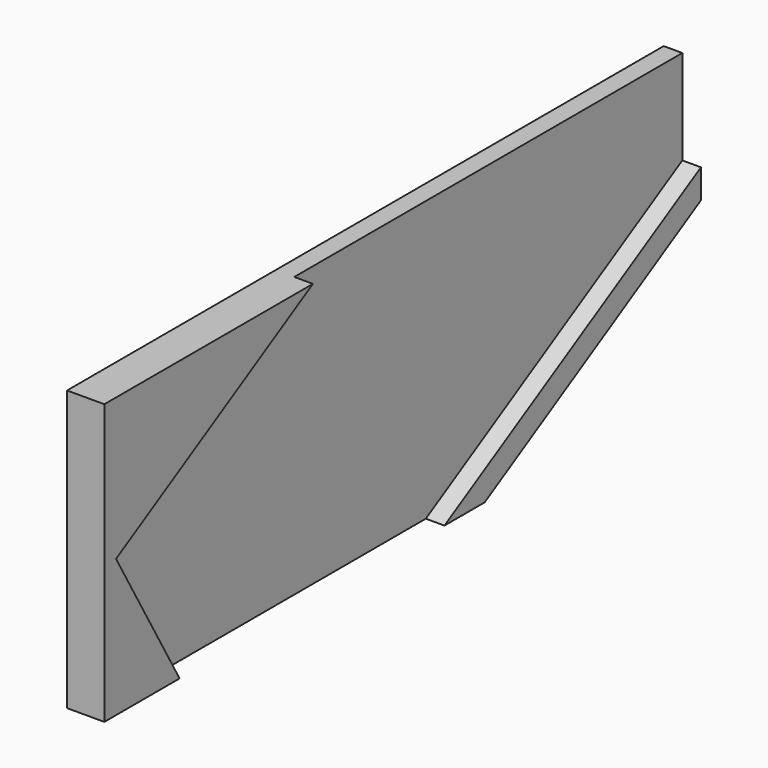
from build123d import *

# Parameters (mm, degrees)
SKETCH024_W             = 5
SKETCH024_H             = 17.4
EXTRUDE021_DEPTH        = 1.5
EXTRUDE021_DEPTH_BACK   = 60
BODY009_PLACEMENT_ANGLE = 30
EXTRUDE020_DEPTH        = 2


with BuildPart() as body009:
    # Sketch024 → Extrude021 (new body, two sides)
    with BuildSketch(Plane.XZ.offset(29)) as extrude021_sk:
        with Locations((10.5, 7.5)):
            Rectangle(SKETCH024_W, SKETCH024_H)
    extrude(amount=EXTRUDE021_DEPTH)
    extrude(extrude021_sk.sketch, amount=-EXTRUDE021_DEPTH_BACK)


with BuildPart() as body009_1:
    # Body009 placement: moved
    add(body009.part.moved(Location((3, 16.3, 28.6))).rotate(Axis((3, 16.3, 28.6), (1, 0, 0)), BODY009_PLACEMENT_ANGLE))


with BuildPart() as cut:
    # Sketch023 → Extrude020 (new body)
    with BuildSketch(Plane(origin=(0, 0, 0), x_dir=(0, -1, 0), z_dir=(-1, 0, 0))):
        Polygon((19, 35), (19, 20), (-6.5, 20), (-21, 28.371579), (-21, 35), align=None)
    extrude(amount=-EXTRUDE020_DEPTH)


with BuildPart() as cut_1:
    # Extrude020 placement: moved
    add(cut.part.moved(Location((10, 0, 0))))

    # Cut: cut Body009
    add(body009_1.part, mode=Mode.SUBTRACT)


solid = cut_1.part
